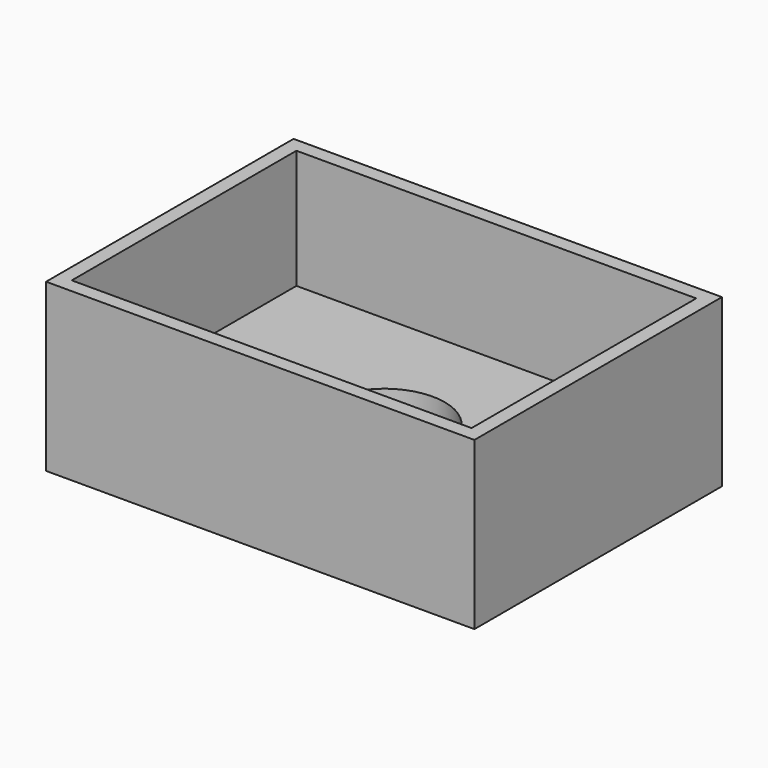
from build123d import *

# Parameters (mm, degrees)
F0_W     = 90
F0_H     = 65
F1_DEPTH = 10
F2_R     = 12.75
F3_DEPTH = 10
F4_W     = 90
F4_H     = 65
F4_W_2   = 84
F4_H_2   = 59
F5_DEPTH = 25


with BuildPart() as f1:
    # F0 (on Top) → F1 (new body)
    with BuildSketch(Plane.XY):
        Rectangle(F0_W, F0_H)
    extrude(amount=F1_DEPTH)

    # F2 (on face) → F3 (cut)
    with BuildSketch(Plane.XY.offset(10)):
        Circle(F2_R)
    extrude(amount=-F3_DEPTH, mode=Mode.SUBTRACT)

    # F4 (on face) → F5 (join)
    with BuildSketch(Plane.XY.offset(10)):
        Rectangle(F4_W, F4_H)
        Rectangle(F4_W_2, F4_H_2, mode=Mode.SUBTRACT)
    extrude(amount=F5_DEPTH)


solid = f1.part
